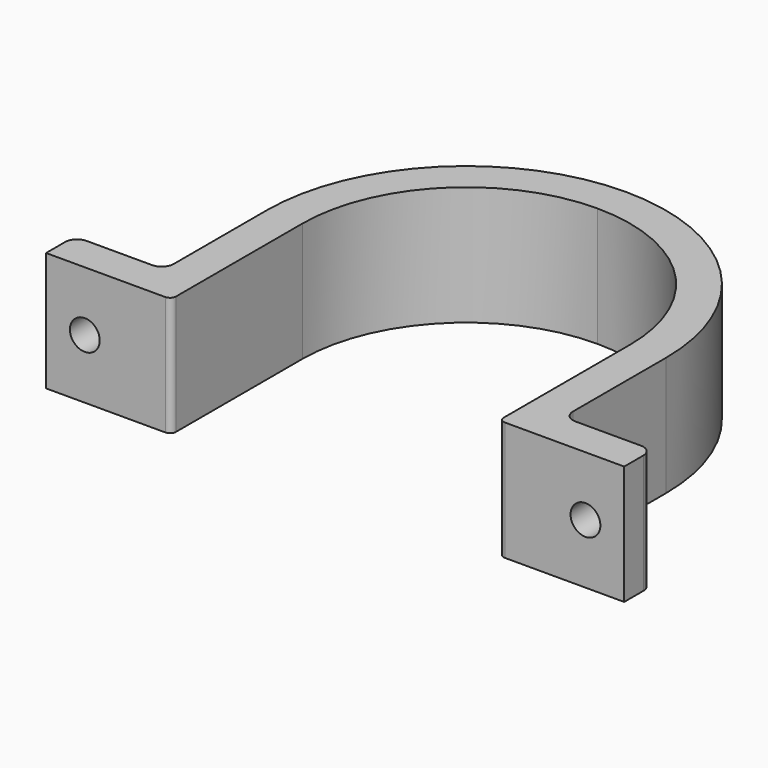
from build123d import *

# Parameters (mm, degrees)
PAD_DEPTH                  = 10
SKETCH001_R                = 2.5
POCKET_DEPTH               = 293.638056
SKETCH001_MIRRORED001_2_R  = 2.5
POCKET_MIRRORED001_2_DEPTH = 293.638056


with BuildPart() as part:
    # Sketch → Pad (new body, symmetric)
    with BuildSketch(Plane.XY):
        with BuildLine():
            ThreePointArc((27.5, 27.5), (19.445436, 46.945436), (0, 55))
            Line((0, 55), (0, 61))
            ThreePointArc((33.5, 27.5), (23.688077, 51.188077), (0, 61))
            Line((33.5, 27.5), (33.5, 8))
            ThreePointArc((33.5, 8), (34.085786, 6.585786), (35.5, 6))
            Line((46.5, 6), (35.5, 6))
            ThreePointArc((48.5, 4), (47.914214, 5.414214), (46.5, 6))
            Line((48.5, 0), (48.5, 4))
            Line((28.5, 0), (48.5, 0))
            ThreePointArc((27.5, 1), (27.792893, 0.292893), (28.5, 0))
            Line((27.5, 27.5), (27.5, 1))
        make_face()
    pad = extrude(amount=PAD_DEPTH, both=True)

    # Mirrored: Pad across Sketch V_Axis
    add(pad.mirror(Plane(origin=(0, 0, 0), x_dir=(0, 0, 1), z_dir=(1, 0, 0))))

    # Sketch001 → Pocket (cut, through all)
    with BuildSketch(Plane.XZ):
        with Locations((42, 0)):
            Circle(SKETCH001_R)
    pocket = extrude(amount=-POCKET_DEPTH, mode=Mode.SUBTRACT)

    # Sketch001 Mirrored001 2 → Pocket Mirrored001 2 (cut, through all)
    with BuildSketch(Plane(origin=(0, 0, 0), x_dir=(1, 0, 0), z_dir=(0, 1, 0))):
        with Locations((42, 0)):
            Circle(SKETCH001_MIRRORED001_2_R)
    pocket_mirrored001_2 = extrude(amount=POCKET_MIRRORED001_2_DEPTH, mode=Mode.SUBTRACT)

    # Mirrored002: Pocket, Pocket Mirrored001 2 across Sketch001 V_Axis
    add(pocket.mirror(Plane(origin=(0, 0, 0), x_dir=(0, -1, 0), z_dir=(1, 0, 0))), mode=Mode.SUBTRACT)
    add(pocket_mirrored001_2.mirror(Plane(origin=(0, 0, 0), x_dir=(0, -1, 0), z_dir=(1, 0, 0))), mode=Mode.SUBTRACT)


solid = part.part
